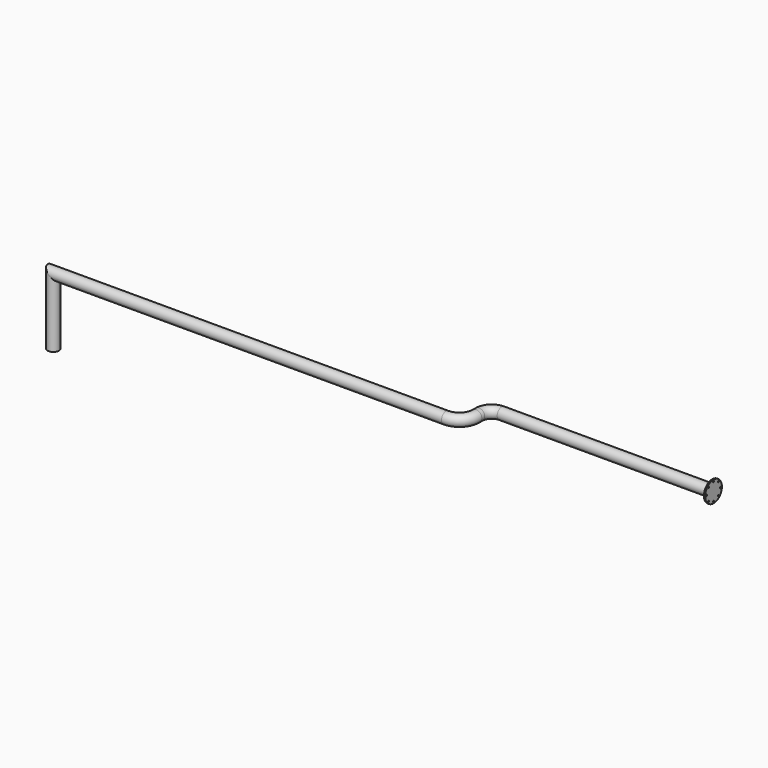
from build123d import *

# Parameters (mm, degrees)
F3_R     = 67.5
F3_R_2   = 125
F3_R_3   = 9
F5_DEPTH = 15


with BuildPart() as f4:
    # F4: sweep along a path in F0, F1
    with BuildLine(Plane.XY) as f4_path:
        Line((5150, 394), (2619.9041843414, 394))
        ThreePointArc((2619.9041843414, 394), (2513.8381671634, 350.066017178), (2469.9041843414, 244))
        Line((2469.9041843414, 244), (2469.9041843414, 200))
        ThreePointArc((2469.9041843414, 200), (2411.3255405787, 58.5786437627), (2269.9041843414, 0))
        Line((2269.9041843414, 0), (0, 0))
        Line((0, 0), (-2420, 0))
    with BuildLine(Plane.XZ) as f4_path_2:
        Line((-2420, 0), (-2420, -800))
    # F3 (on offset) → F4 (sweep)
    with BuildSketch(Plane.YZ.offset(5150)):
        with Locations((394, 0)):
            Circle(F3_R)
    sweep(path=f4_path.line + f4_path_2.line, transition=Transition.RIGHT)

    # F3 (on offset) → F5 (join)
    with BuildSketch(Plane.YZ.offset(5150)):
        with Locations((394, 0)):
            Circle(F3_R_2)
        with Locations((319.7537879754, -74.2462120246)):
            Circle(F3_R_3, mode=Mode.SUBTRACT)
        with Locations((394, -105)):
            Circle(F3_R_3, mode=Mode.SUBTRACT)
        with Locations((468.2462120246, -74.2462120246)):
            Circle(F3_R_3, mode=Mode.SUBTRACT)
        with Locations((289, 0)):
            Circle(F3_R_3, mode=Mode.SUBTRACT)
        with Locations((319.7537879754, 74.2462120246)):
            Circle(F3_R_3, mode=Mode.SUBTRACT)
        with Locations((394, 0)):
            Circle(F3_R, mode=Mode.SUBTRACT)
        with Locations((499, 0)):
            Circle(F3_R_3, mode=Mode.SUBTRACT)
        with Locations((394, 105)):
            Circle(F3_R_3, mode=Mode.SUBTRACT)
        with Locations((468.2462120246, 74.2462120246)):
            Circle(F3_R_3, mode=Mode.SUBTRACT)
    extrude(amount=-F5_DEPTH)


solid = f4.part
